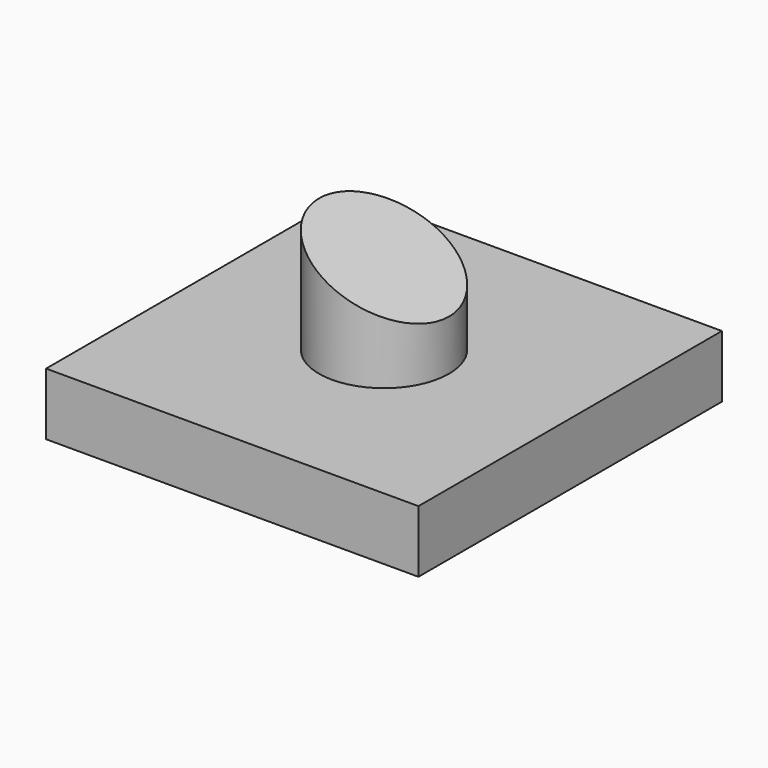
from build123d import *

# Parameters (mm, degrees)
F0_W     = 152.023002
F0_H     = 154.847592
F1_DEPTH = 25.4
F2_R     = 26.528489
F3_DEPTH = 50.8
F5_DEPTH = 254


with BuildPart() as f1:
    # F0 (on Top) → F1 (new body)
    with BuildSketch(Plane.XY):
        Rectangle(F0_W, F0_H)
    extrude(amount=F1_DEPTH)

    # F2 (on face) → F3 (join)
    with BuildSketch(Plane.XY.offset(25.4)):
        Circle(F2_R)
    extrude(amount=F3_DEPTH)

    # F4 (on Front) → F5 (cut, symmetric)
    with BuildSketch(Plane.XZ):
        Polygon((36.018249, 76.43567), (-37.484638, 76.43567), (36.018249, 41.425567), align=None)
    extrude(amount=F5_DEPTH, both=True, mode=Mode.SUBTRACT)


solid = f1.part
